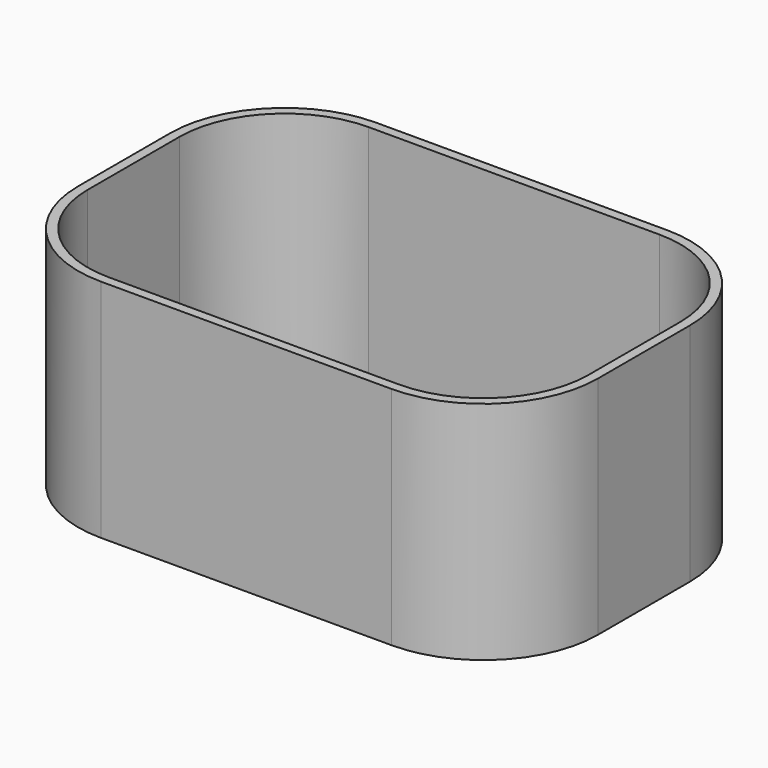
from build123d import *

# Parameters (mm, degrees)
F2_W     = 68
F2_H     = 45
F3_DEPTH = 29.5
F4_R     = 15
F5_T     = -1.25
F6_DEPTH = 0.35


with BuildPart() as f3:
    # F2 (on Top) → F3 (new body)
    with BuildSketch(Plane.XY):
        Rectangle(F2_W, F2_H)
    extrude(amount=F3_DEPTH)

    # F4
    f4_edges = [f3.edges().sort_by_distance(p)[0] for p in [
        (34, -22.5, 14.75),
        (34, 22.5, 14.75),
        (-34, -22.5, 14.75),
        (-34, 22.5, 14.75),
    ]]
    fillet(f4_edges, radius=F4_R)

    # F5
    f5_openings = [f3.faces().sort_by_distance(p)[0] for p in [
        (0, 0, 29.5),
    ]]
    offset(amount=F5_T, openings=f5_openings)

    # F6 (cut): a face of the model
    f6_faces = [f3.faces().sort_by_distance(p)[0] for p in [
        (0, 0, 1.25),
    ]]
    extrude(f6_faces, amount=-F6_DEPTH, mode=Mode.SUBTRACT)


solid = f3.part
